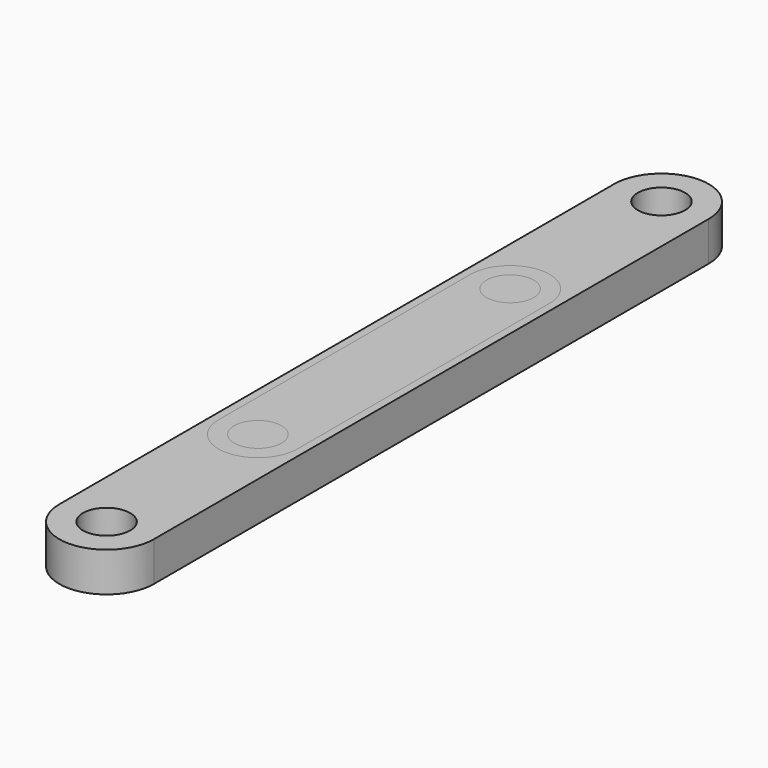
from build123d import *

# Parameters (mm, degrees)
SKETCH_R     = 1.5
PAD_DEPTH    = 2.5
SKETCH001_R  = 1.5
PAD001_DEPTH = 2.5


with BuildPart() as f_44x6:
    # Sketch → Pad (new body)
    with BuildSketch(Plane.XY):
        with BuildLine():
            Line((-3, 22), (-3, -22))
            ThreePointArc((-3, -22), (0, -25), (3, -22))
            Line((3, -22), (3, 22))
            ThreePointArc((3, 22), (0, 25), (-3, 22))
        make_face()
        with Locations((0, 22)):
            Circle(SKETCH_R, mode=Mode.SUBTRACT)
        with Locations((0, -22)):
            Circle(SKETCH_R, mode=Mode.SUBTRACT)
    extrude(amount=PAD_DEPTH)


with BuildPart() as f_20x5:
    # Sketch001 → Pad001 (new body)
    with BuildSketch(Plane.XY):
        with BuildLine():
            Line((-2.5, 10), (-2.5, -10))
            ThreePointArc((-2.5, -10), (0, -12.5), (2.5, -10))
            Line((2.5, -10), (2.5, 10))
            ThreePointArc((2.5, 10), (0, 12.5), (-2.5, 10))
        make_face()
        with Locations((0, 10)):
            Circle(SKETCH001_R, mode=Mode.SUBTRACT)
        with Locations((0, -10)):
            Circle(SKETCH001_R, mode=Mode.SUBTRACT)
    extrude(amount=PAD001_DEPTH)


solid = Compound([f_44x6.part, f_20x5.part])
